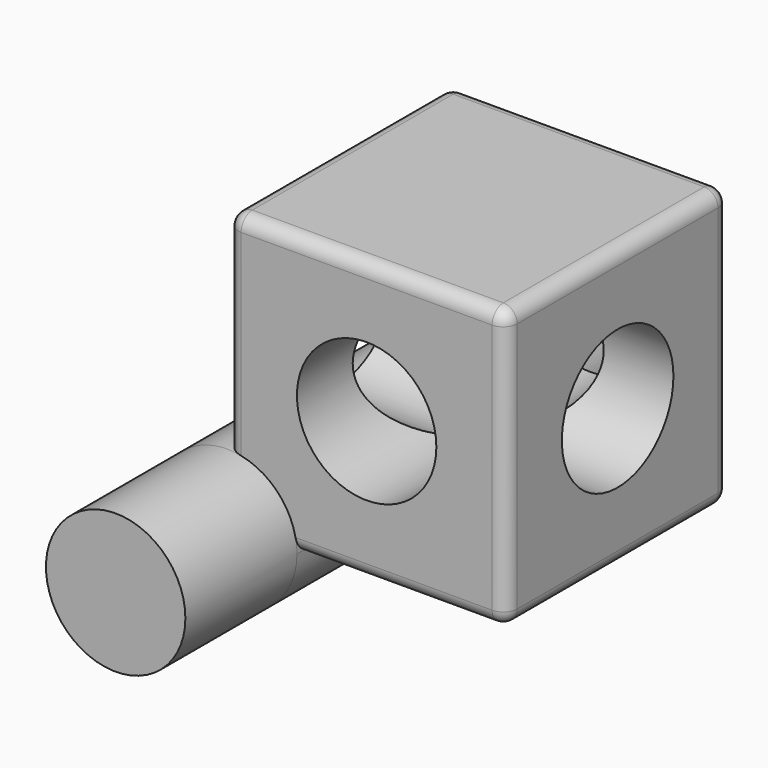
from build123d import *

# Parameters (mm, degrees)
F0_W          = 101.6
F0_H          = 101.6
F1_DEPTH      = 101.6
F2_R          = 25.4
F3_DEPTH      = 101.6
F4_R          = 25.4
F5_DEPTH      = 101.6
F6_R          = 5.08
F8_R          = 25.4
F9_DEPTH      = 50.8
F9_DEPTH_BACK = 152.4


with BuildPart() as f1:
    # F0 (on Front) → F1 (new body)
    with BuildSketch(Plane.XZ):
        with Locations((50.8, 50.8)):
            Rectangle(F0_W, F0_H)
    extrude(amount=F1_DEPTH)

    # F2 (on face) → F3 (cut)
    with BuildSketch(Plane.XZ.offset(101.6)):
        with Locations((50.8, 50.8)):
            Circle(F2_R)
    extrude(amount=-F3_DEPTH, mode=Mode.SUBTRACT)

    # F4 (on face) → F5 (cut)
    with BuildSketch(Plane.YZ.offset(101.6)):
        with Locations((-50.8, 50.8)):
            Circle(F4_R)
    extrude(amount=-F5_DEPTH, mode=Mode.SUBTRACT)

    # F6
    f6_edges = [f1.edges().sort_by_distance(p)[0] for p in [
        (50.8, -101.6, 101.6),
        (101.6, -50.8, 101.6),
        (101.6, -101.6, 50.8),
        (50.8, -101.6, 0),
        (101.6, -50.8, 0),
        (101.6, 0, 50.8),
        (0, -50.8, 101.6),
        (50.8, 0, 101.6),
        (0, -50.8, 0),
        (50.8, 0, 0),
        (0, -101.6, 50.8),
        (0, 0, 50.8),
    ]]
    fillet(f6_edges, radius=F6_R)

    # F8 (on offset) → F9 (join, two sides)
    with BuildSketch(Plane.XZ.offset(101.6)) as f9_sk:
        Circle(F8_R)
    extrude(amount=F9_DEPTH)
    extrude(f9_sk.sketch, amount=-F9_DEPTH_BACK)


solid = f1.part
